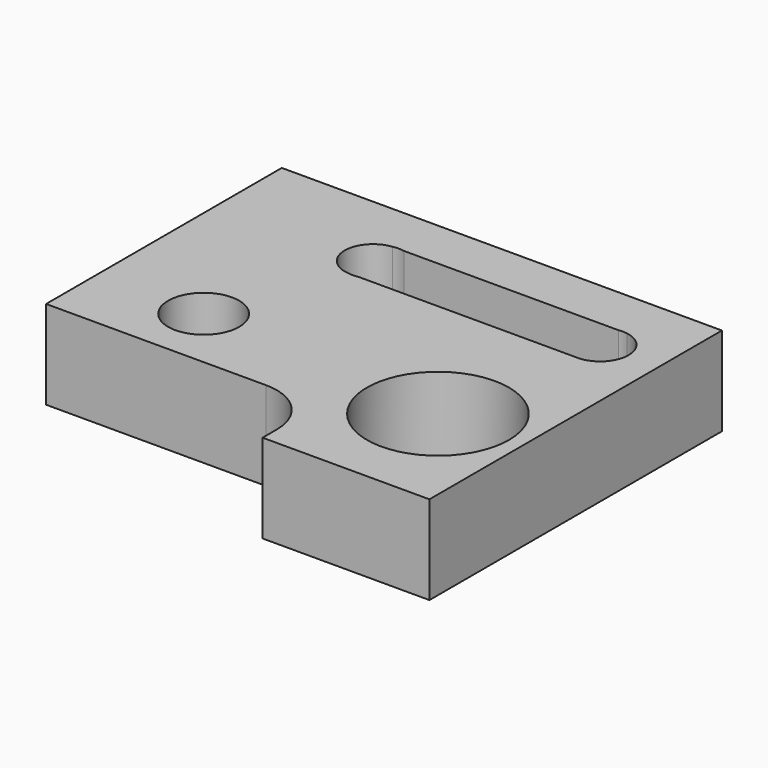
from build123d import *

# Parameters (mm, degrees)
F0_R     = 10
F0_R_2   = 20
F1_DEPTH = 25


with BuildPart() as f1:
    # F0 (on Top) → F1 (new body)
    with BuildSketch(Plane.XY):
        with BuildLine():
            Line((67.799486, 40.061648), (-56.200514, 40.061648))
            Line((-56.200514, 40.061648), (-56.200514, -42.938352))
            Line((-56.200514, -42.938352), (-26.200514, -42.938352))
            Line((-26.200514, -42.938352), (5.799486, -42.938352))
            ThreePointArc((5.799486, -42.938352), (16.406087, -47.33175), (20.799486, -57.938352))
            Line((20.799486, -57.938352), (20.799486, -62.938352))
            Line((20.799486, -62.938352), (67.799486, -62.938352))
            Line((67.799486, -62.938352), (67.799486, 26.061648))
            Line((67.799486, 26.061648), (67.799486, 40.061648))
        make_face()
        with Locations((-26.200514, -24.938352)):
            Circle(F0_R, mode=Mode.SUBTRACT)
        with Locations((43.799486, -29.938352)):
            Circle(F0_R_2, mode=Mode.SUBTRACT)
        with BuildLine():
            ThreePointArc((49.922298, 25.956471), (51.112184, 26.045455), (52.30207, 25.956471))
            ThreePointArc((52.30207, 25.956471), (59.104849, 17.702953), (51.620944, 10.061648))
            ThreePointArc((51.620944, 10.061648), (51.112184, 10.045455), (50.603423, 10.061648))
            Line((50.603423, 10.061648), (-10.417727, 10.061648))
            ThreePointArc((-10.417727, 10.061648), (-12.079315, 9.88982), (-13.740903, 10.061648))
            ThreePointArc((-13.740903, 10.061648), (-20.827377, 18.007051), (-13.74541, 25.956471))
            ThreePointArc((-13.74541, 25.956471), (-12.079315, 26.129243), (-10.41322, 25.956471))
            Line((-10.41322, 25.956471), (49.922298, 25.956471))
        make_face(mode=Mode.SUBTRACT)
    extrude(amount=F1_DEPTH)


solid = f1.part
